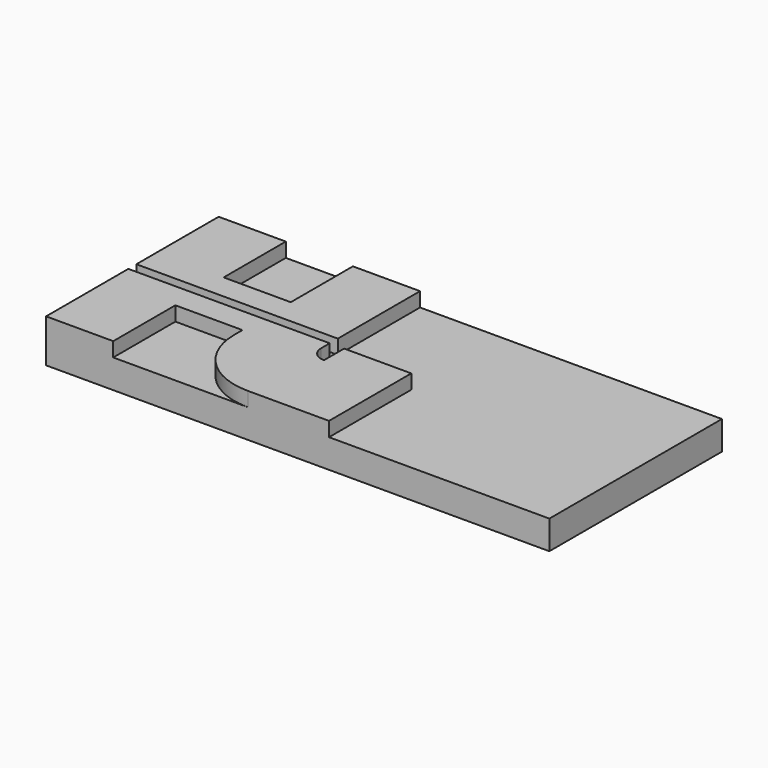
from build123d import *

# Parameters (mm, degrees)
F0_W     = 88.9
F0_H     = 38.1
F1_DEPTH = 5.08
F3_DEPTH = 2.54


with BuildPart() as f1:
    # F0 (on Top) → F1 (new body)
    with BuildSketch(Plane.XY):
        Rectangle(F0_W, F0_H)
    extrude(amount=F1_DEPTH)

    # F2 (on face) → F3 (join)
    with BuildSketch(Plane.XY.offset(5.08)):
        Polygon((-44.45, 19.05), (-44.45, 16.51), (-44.45, 0.889), (-36.171958, 0.889), (-8.873067, 0.889), (-8.873067, 16.51), (-8.873067, 19.05), (-11.413067, 19.05), (-20.734867, 19.05), (-20.734867, 5.334), (-32.5882, 5.334), (-32.5882, 19.05), (-41.91, 19.05), align=None)
        with BuildLine():
            Line((-8.873067, -0.889), (-44.45, -0.889))
            Line((-44.45, -0.889), (-44.45, -19.05))
            Line((-44.45, -19.05), (-32.5882, -19.05))
            Line((-32.5882, -19.05), (-32.5882, -5.334))
            Line((-32.5882, -5.334), (-20.734867, -5.334))
            Line((-20.734867, -5.334), (-20.734867, -7.112))
            ThreePointArc((-20.734867, -7.112), (-17.238307, -15.553441), (-8.796867, -19.05))
            Line((-8.796867, -19.05), (5.528733, -19.05))
            Line((5.528733, -19.05), (5.528733, -0.889))
            Line((5.528733, -0.889), (-6.333067, -0.889))
            Line((-6.333067, -0.889), (-6.333067, -5.334))
            ThreePointArc((-6.333067, -5.334), (-8.129118, -4.590051), (-8.873067, -2.794))
            Line((-8.873067, -2.794), (-8.873067, -0.889))
        make_face()
    extrude(amount=F3_DEPTH)


solid = f1.part
